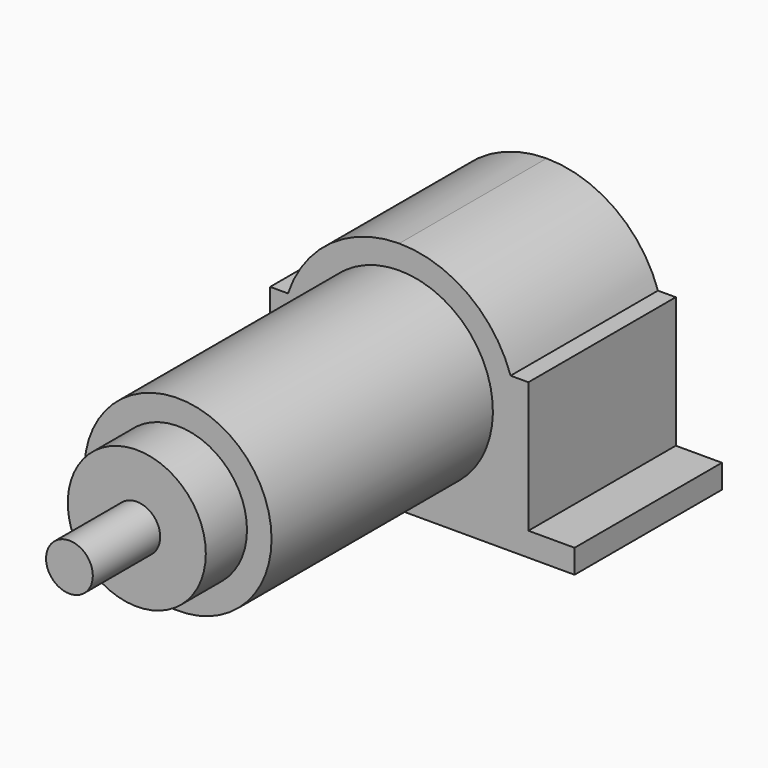
from build123d import *

# Parameters (mm, degrees)
F0_R     = 40
F1_DEPTH = 197
F2_R     = 29.5
F3_DEPTH = 22
F4_R     = 10
F5_DEPTH = 36
F7_DEPTH = 78.74


with BuildPart() as f1:
    # F0 (on Front) → F1 (new body)
    with BuildSketch(Plane.XZ):
        Circle(F0_R)
    extrude(amount=F1_DEPTH)

    # F2 (on face) → F3 (join)
    with BuildSketch(Plane.XZ.offset(197)):
        Circle(F2_R)
    extrude(amount=F3_DEPTH)

    # F4 (on face) → F5 (join)
    with BuildSketch(Plane.XZ.offset(219)):
        Circle(F4_R)
    extrude(amount=F5_DEPTH)


with BuildPart() as f7:
    # F6 (on Front) → F7 (new body)
    with BuildSketch(Plane.XZ):
        with BuildLine():
            Line((-74.93, -50.161), (0, -50.161))
            Line((0, -50.161), (74.93, -50.161))
            Line((74.93, -50.161), (74.93, -40.001))
            Line((74.93, -40.001), (55.201333, -40.001))
            Line((55.201333, -40.001), (55.201333, 15.879))
            Line((55.201333, 15.879), (47.581333, 15.879))
            ThreePointArc((47.581333, 15.879), (29.322512, 40.697865), (0, 50.161))
            ThreePointArc((0, 50.161), (-29.322512, 40.697865), (-47.581333, 15.879))
            Line((-47.581333, 15.879), (-55.201333, 15.879))
            Line((-55.201333, 15.879), (-55.201333, -40.001))
            Line((-55.201333, -40.001), (-74.93, -40.001))
            Line((-74.93, -40.001), (-74.93, -50.161))
        make_face()
        with BuildLine():
            ThreePointArc((0, -40.001), (-40.001, 0), (0, 40.001))
            ThreePointArc((0, 40.001), (40.001, 0), (0, -40.001))
        make_face(mode=Mode.SUBTRACT)
    extrude(amount=F7_DEPTH)


solid = Compound([f1.part, f7.part])
